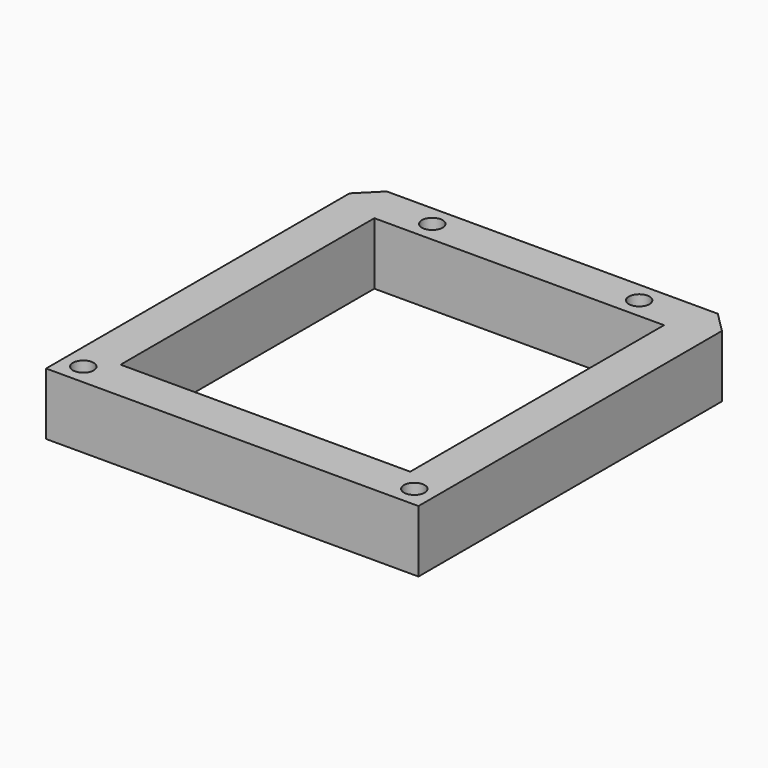
from build123d import *

# Parameters (mm, degrees)
CYLINDER2659_R     = 1.5
CYLINDER2659_DEPTH = 60
CYLINDER2660_R     = 1.5
CYLINDER2660_DEPTH = 60
CYLINDER2661_R     = 1.5
CYLINDER2661_DEPTH = 60
CYLINDER2658_R     = 1.5
CYLINDER2658_DEPTH = 60
BOX896_W           = 42
BOX896_H           = 46
BOX896_DEPTH       = 50
BOX895_W           = 54
BOX895_H           = 58
BOX895_DEPTH       = 9
CHAMFER130_SIZE    = 3


with BuildPart() as obj1:
    # Cylinder2659 → Cylinder2659 (new body)
    with BuildSketch(Plane(origin=(-24, 73, -80), x_dir=(1, 0, 0), z_dir=(0, 0, 1))):
        Circle(CYLINDER2659_R)
    extrude(amount=CYLINDER2659_DEPTH)


with BuildPart() as obj2:
    # Cylinder2660 → Cylinder2660 (new body)
    with BuildSketch(Plane(origin=(-15, 125, -80), x_dir=(1, 0, 0), z_dir=(0, 0, 1))):
        Circle(CYLINDER2660_R)
    extrude(amount=CYLINDER2660_DEPTH)


with BuildPart() as obj3:
    # Cylinder2661 → Cylinder2661 (new body)
    with BuildSketch(Plane(origin=(15, 125, -80), x_dir=(1, 0, 0), z_dir=(0, 0, 1))):
        Circle(CYLINDER2661_R)
    extrude(amount=CYLINDER2661_DEPTH)


with BuildPart() as compound1174:
    # Cylinder2658 → Cylinder2658 (new body)
    with BuildSketch(Plane(origin=(24, 73, -80), x_dir=(1, 0, 0), z_dir=(0, 0, 1))):
        Circle(CYLINDER2658_R)
    extrude(amount=CYLINDER2658_DEPTH)

    # Compound1174: union obj1, obj2, obj3
    add(obj1.part)
    add(obj2.part)
    add(obj3.part)


with BuildPart() as compound1174_1:
    # Compound1174 placement: moved
    add(compound1174.part.moved(Location((0, 0, 120))))


with BuildPart() as krychle895:
    # Box896 → Box896 (new body)
    with BuildSketch(Plane(origin=(-21, 76, 38), x_dir=(1, 0, 0), z_dir=(0, 0, 1))):
        with Locations((21, 23)):
            Rectangle(BOX896_W, BOX896_H)
    extrude(amount=BOX896_DEPTH)


with BuildPart() as cut990:
    # Box895 → Box895 (new body)
    with BuildSketch(Plane(origin=(-27, 70, 75), x_dir=(1, 0, 0), z_dir=(0, 0, 1))):
        with Locations((27, 29)):
            Rectangle(BOX895_W, BOX895_H)
    extrude(amount=BOX895_DEPTH)

    # Cut981: cut Krychle895
    add(krychle895.part, mode=Mode.SUBTRACT)


with BuildPart() as cut990_1:
    # Cut981 placement: moved
    add(cut990.part.moved(Location((0, 0, 10))))

    # Chamfer130
    chamfer130_edges = [cut990_1.edges().sort_by_distance(p)[0] for p in [
        (-27, 128, 89.5),
        (27, 128, 89.5),
    ]]
    chamfer(chamfer130_edges, length=CHAMFER130_SIZE)

    # Cut990: cut Compound1174
    add(compound1174_1.part, mode=Mode.SUBTRACT)


solid = cut990_1.part
